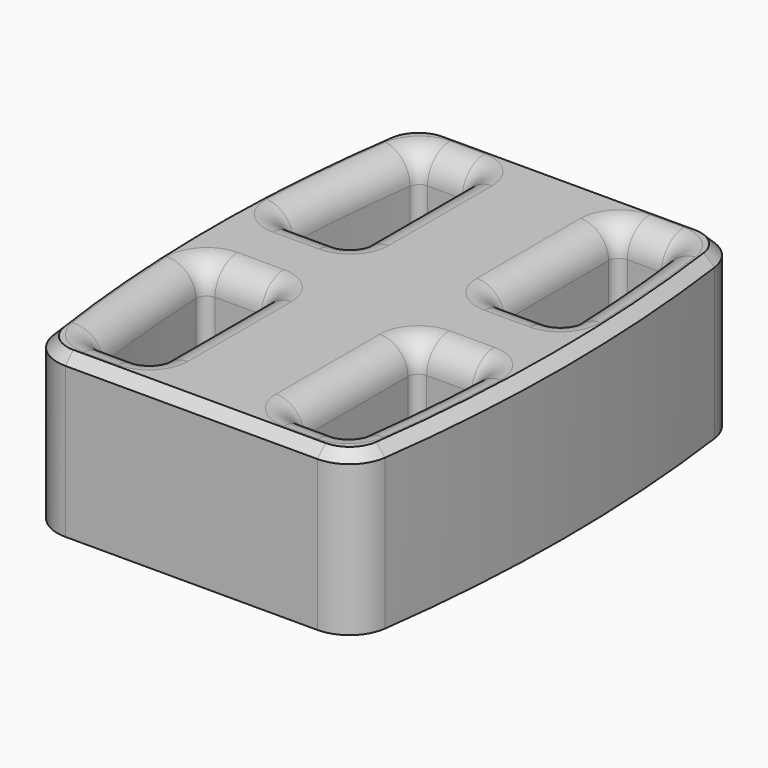
from build123d import *

# Parameters (mm, degrees)
F1_DEPTH = 12.7
F2_R     = 4.445
F3_SIZE  = 1.5875


with BuildPart() as f1:
    # F0 (on Top) → F1 (new body, symmetric)
    with BuildSketch(Plane.XY):
        with BuildLine():
            ThreePointArc((26.209303, 32.602941), (24.094546, 36.53219), (19.916848, 38.1))
            Line((19.916848, 38.1), (-19.973807, 38.1))
            ThreePointArc((-19.973807, 38.1), (-24.128411, 36.552266), (-26.257749, 32.663547))
            ThreePointArc((-26.257749, 32.663547), (-28.619616, 0), (-26.257749, -32.663547))
            ThreePointArc((-26.257749, -32.663547), (-24.128411, -36.552266), (-19.973807, -38.1))
            Line((-19.973807, -38.1), (19.916848, -38.1))
            ThreePointArc((19.916848, -38.1), (24.094546, -36.53219), (26.209303, -32.602941))
            ThreePointArc((26.209303, -32.602941), (28.408907, 0), (26.209303, 32.602941))
        make_face()
        with BuildLine():
            ThreePointArc((-20.176107, -30.325869), (-21.360101, -20.015452), (-22.058065, -9.660772))
            ThreePointArc((-22.058065, -9.660772), (-21.601359, -8.446905), (-20.408647, -7.9375))
            Line((-20.408647, -7.9375), (-13.081, -7.9375))
            ThreePointArc((-13.081, -7.9375), (-11.913567, -8.421067), (-11.43, -9.5885))
            Line((-11.43, -9.5885), (-11.43, -30.099001))
            ThreePointArc((-11.43, -30.099001), (-11.913567, -31.266434), (-13.081, -31.750001))
            Line((-13.081, -31.750001), (-18.540769, -31.750001))
            ThreePointArc((-18.540769, -31.750001), (-19.625029, -31.344063), (-20.176107, -30.325869))
        make_face(mode=Mode.SUBTRACT)
        with BuildLine():
            ThreePointArc((20.107444, -30.310712), (19.56009, -31.339028), (18.470075, -31.750001))
            Line((18.470075, -31.750001), (13.081, -31.750001))
            ThreePointArc((13.081, -31.750001), (11.913567, -31.266434), (11.43, -30.099001))
            Line((11.43, -30.099001), (11.43, -9.5885))
            ThreePointArc((11.43, -9.5885), (11.913567, -8.421067), (13.081, -7.9375))
            Line((13.081, -7.9375), (20.211979, -7.9375))
            ThreePointArc((20.211979, -7.9375), (21.403018, -8.44516), (21.861601, -9.655944))
            ThreePointArc((21.861601, -9.655944), (21.21105, -20.002567), (20.107444, -30.310712))
        make_face(mode=Mode.SUBTRACT)
        with BuildLine():
            ThreePointArc((-22.058065, 9.660772), (-21.360101, 20.015452), (-20.176107, 30.325868))
            ThreePointArc((-20.176107, 30.325868), (-19.625029, 31.344062), (-18.540769, 31.75))
            Line((-18.540769, 31.75), (-13.081, 31.75))
            ThreePointArc((-13.081, 31.75), (-11.913567, 31.266433), (-11.43, 30.099))
            Line((-11.43, 30.099), (-11.43, 9.5885))
            ThreePointArc((-11.43, 9.5885), (-11.913567, 8.421067), (-13.081, 7.9375))
            Line((-13.081, 7.9375), (-20.408647, 7.9375))
            ThreePointArc((-20.408647, 7.9375), (-21.601359, 8.446905), (-22.058065, 9.660772))
        make_face(mode=Mode.SUBTRACT)
        with BuildLine():
            Line((13.081, 31.75), (18.470075, 31.75))
            ThreePointArc((18.470075, 31.75), (19.56009, 31.339028), (20.107444, 30.310712))
            ThreePointArc((20.107444, 30.310712), (21.21105, 20.002566), (21.861601, 9.655944))
            ThreePointArc((21.861601, 9.655944), (21.403018, 8.44516), (20.211979, 7.9375))
            Line((20.211979, 7.9375), (13.081, 7.9375))
            ThreePointArc((13.081, 7.9375), (11.913567, 8.421067), (11.43, 9.5885))
            Line((11.43, 9.5885), (11.43, 30.099))
            ThreePointArc((11.43, 30.099), (11.913567, 31.266433), (13.081, 31.75))
        make_face(mode=Mode.SUBTRACT)
    extrude(amount=F1_DEPTH, both=True)

    # F2
    f2_edges = [f1.edges().sort_by_distance(p)[0] for p in [
        (11.43, -19.84375, 12.7),
        (-11.43, -19.84375, 12.7),
        (11.43, 19.84375, 12.7),
        (-11.43, 19.84375, 12.7),
    ]]
    fillet(f2_edges, radius=F2_R)

    # F3
    f3_edges = [f1.edges().sort_by_distance(p)[0] for p in [
        (-0.028479, -38.1, 12.7),
    ]]
    chamfer(f3_edges, length=F3_SIZE)


solid = f1.part
